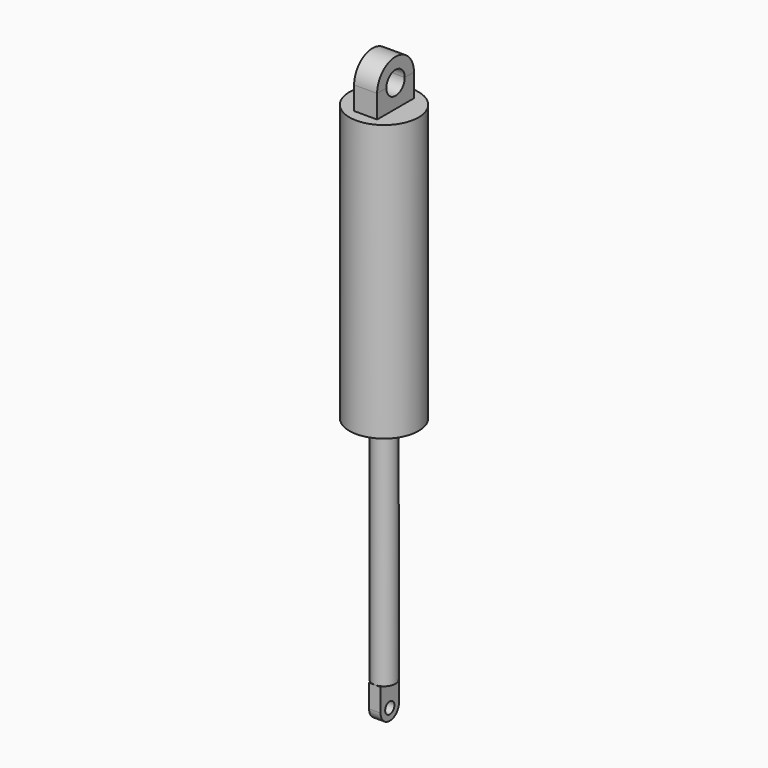
from build123d import *

# Parameters (mm, degrees)
F0_R      = 12.7
F1_DEPTH  = 254
F2_R      = 38.1
F3_DEPTH  = 304.8
F4_W      = 25.4
F4_H      = 50.8
F5_DEPTH  = 25.4
F7_DEPTH  = 25.4
F9_D      = 25.4
F9_2_D    = 25.4
F10_W     = 12.7
F10_H     = 25.4
F11_DEPTH = 25.4
F13_DEPTH = 12.7
F15_D     = 12.7


with BuildPart() as f1:
    # F0 (on Top) → F1 (new body)
    with BuildSketch(Plane.XY):
        Circle(F0_R)
    extrude(amount=-F1_DEPTH)

    # F2 (on Top) → F3 (join)
    with BuildSketch(Plane.XY):
        Circle(F2_R)
    extrude(amount=F3_DEPTH)

    # F4 (on face) → F5 (join)
    with BuildSketch(Plane.XY.offset(304.8)):
        Rectangle(F4_W, F4_H)
    extrude(amount=F5_DEPTH)

    # F9 (through all)
    with Locations(Plane.YZ.offset(12.7)):
        with Locations((0, 330.2)):
            Hole(F9_D / 2)

    # F10 (on face) → F11 (join)
    with BuildSketch(Plane(origin=(0, 0, -254), x_dir=(1, 0, 0), z_dir=(0, 0, -1))):
        Rectangle(F10_W, F10_H)
    extrude(amount=F11_DEPTH)

    # F12 (on face) → F13 (join)
    with BuildSketch(Plane.YZ.offset(6.35)):
        with BuildLine():
            Line((12.7, -279.4), (-12.7, -279.4))
            ThreePointArc((-12.7, -279.4), (0, -292.1), (12.7, -279.4))
        make_face()
    extrude(amount=-F13_DEPTH)

    # F15 (through all)
    with Locations(Plane.YZ.offset(6.35)):
        with Locations((0, -279.4)):
            Hole(F15_D / 2)


with BuildPart() as f7:
    # F6 (on face) → F7 (new body)
    with BuildSketch(Plane.YZ.offset(12.7)):
        with BuildLine():
            Line((-25.4, 330.2), (25.4, 330.2))
            ThreePointArc((25.4, 330.2), (0, 355.6), (-25.4, 330.2))
        make_face()
    extrude(amount=-F7_DEPTH)

    # F9#2 (through all)
    with Locations(Plane.YZ.offset(12.7)):
        with Locations((0, 330.2)):
            Hole(F9_2_D / 2)


solid = Compound([f1.part, f7.part])
